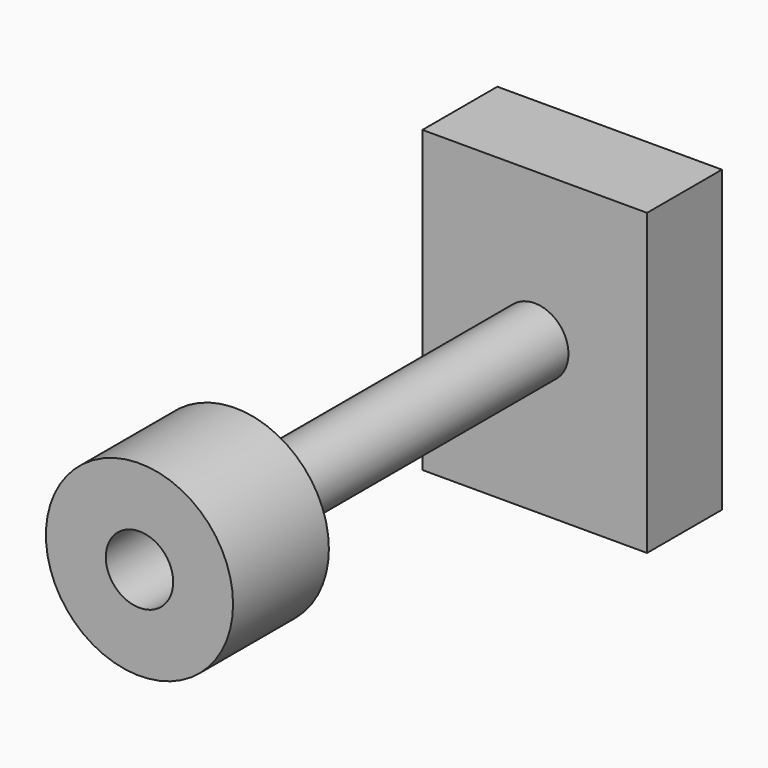
from build123d import *

# Parameters (mm, degrees)
F0_R     = 25
F0_R_2   = 9
F1_DEPTH = 32
F2_R     = 9
F3_DEPTH = 100
F4_W     = 60
F4_H     = 80
F5_DEPTH = 25


with BuildPart() as f1:
    # F0 (on Front) → F1 (new body)
    with BuildSketch(Plane.XZ):
        Circle(F0_R)
        Circle(F0_R_2, mode=Mode.SUBTRACT)
    extrude(amount=F1_DEPTH)


with BuildPart() as f3:
    # F2 (on face) → F3 (new body)
    with BuildSketch(Plane(origin=(0, 0, 0), x_dir=(-1, 0, 0), z_dir=(0, 1, 0))):
        Circle(F2_R)
    extrude(amount=F3_DEPTH)


with BuildPart() as f5:
    # F4 (on face) → F5 (new body)
    with BuildSketch(Plane(origin=(0, 100, 0), x_dir=(-1, 0, 0), z_dir=(0, 1, 0))):
        Rectangle(F4_W, F4_H)
    extrude(amount=F5_DEPTH)


solid = Compound([f1.part, f3.part, f5.part])
